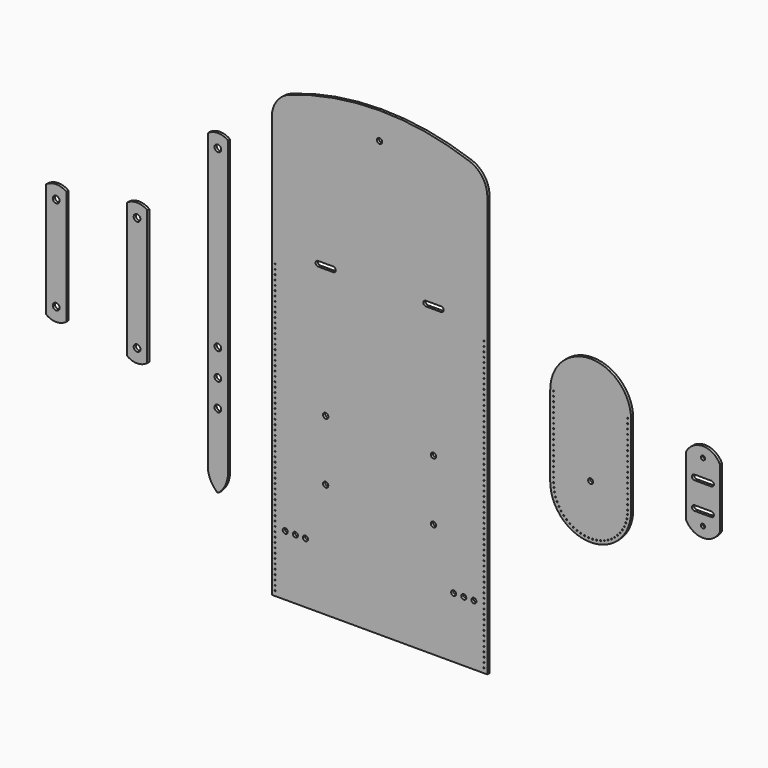
from build123d import *

# Parameters (mm, degrees)
F0_R      = 2.38125
F0_R_2    = 2.5
F1_DEPTH  = 2.54
F2_R      = 2.38125
F3_DEPTH  = 2.54
F4_R      = 0.5
F5_DEPTH  = 2.541
F6_R      = 0.5
F7_DEPTH  = 2.541
F8_R      = 3.175
F9_DEPTH  = 2.54
F10_R     = 2
F11_DEPTH = 2.54


with BuildPart() as f1:
    # F0 (on Front) → F1 (new body)
    with BuildSketch(Plane.XZ):
        with BuildLine():
            ThreePointArc((101.6, 179.013647), (96.939013, 193.678344), (84.666667, 202.960997))
            ThreePointArc((84.666667, 202.960997), (0, 217.4875), (-84.666667, 202.960997))
            ThreePointArc((-84.666667, 202.960997), (-96.939013, 193.678344), (-101.6, 179.013647))
            Line((-101.6, 179.013647), (-101.6, -217.4875))
            Line((-101.6, -217.4875), (101.6, -217.4875))
            Line((101.6, -217.4875), (101.6, 179.013647))
        make_face()
        with Locations((-88.9, -160.3375)):
            Circle(F0_R, mode=Mode.SUBTRACT)
        with Locations((-79.375, -160.3375)):
            Circle(F0_R, mode=Mode.SUBTRACT)
        with Locations((-69.85, -160.3375)):
            Circle(F0_R, mode=Mode.SUBTRACT)
        with Locations((-50.8, -109.5375)):
            Circle(F0_R_2, mode=Mode.SUBTRACT)
        with Locations((-50.8, -52.3875)):
            Circle(F0_R_2, mode=Mode.SUBTRACT)
        with Locations((50.8, -109.5375)):
            Circle(F0_R_2, mode=Mode.SUBTRACT)
        with Locations((69.85, -160.3375)):
            Circle(F0_R, mode=Mode.SUBTRACT)
        with Locations((79.375, -160.3375)):
            Circle(F0_R, mode=Mode.SUBTRACT)
        with Locations((88.9, -160.3375)):
            Circle(F0_R, mode=Mode.SUBTRACT)
        with Locations((50.8, -52.3875)):
            Circle(F0_R_2, mode=Mode.SUBTRACT)
        with BuildLine():
            Line((-43.65625, 69.05625), (-57.94375, 69.05625))
            ThreePointArc((-57.94375, 69.05625), (-60.325, 71.4375), (-57.94375, 73.81875))
            Line((-57.94375, 73.81875), (-43.65625, 73.81875))
            ThreePointArc((-43.65625, 73.81875), (-41.275, 71.4375), (-43.65625, 69.05625))
        make_face(mode=Mode.SUBTRACT)
        with Locations((0, 192.0875)):
            Circle(F0_R_2, mode=Mode.SUBTRACT)
        with BuildLine():
            Line((43.65625, 73.81875), (57.94375, 73.81875))
            ThreePointArc((57.94375, 73.81875), (60.325, 71.4375), (57.94375, 69.05625))
            Line((57.94375, 69.05625), (43.65625, 69.05625))
            ThreePointArc((43.65625, 69.05625), (41.275, 71.4375), (43.65625, 73.81875))
        make_face(mode=Mode.SUBTRACT)
    extrude(amount=F1_DEPTH)

    # F6 (on face) → F7 (cut, through all)
    with BuildSketch(Plane.XZ.offset(2.54)):
        with Locations((98.425, -213.0425)):
            Circle(F6_R)
        with Locations((98.425, -208.5975)):
            Circle(F6_R)
        with Locations((98.425, -204.1525)):
            Circle(F6_R)
        with Locations((98.425, -199.7075)):
            Circle(F6_R)
        with Locations((98.425, -195.2625)):
            Circle(F6_R)
        with Locations((98.425, -190.8175)):
            Circle(F6_R)
        with Locations((98.425, -186.3725)):
            Circle(F6_R)
        with Locations((98.425, -181.9275)):
            Circle(F6_R)
        with Locations((98.425, -177.4825)):
            Circle(F6_R)
        with Locations((98.425, -173.0375)):
            Circle(F6_R)
        with Locations((98.425, -168.5925)):
            Circle(F6_R)
        with Locations((98.425, -164.1475)):
            Circle(F6_R)
        with Locations((98.425, -159.7025)):
            Circle(F6_R)
        with Locations((98.425, -155.2575)):
            Circle(F6_R)
        with Locations((98.425, -150.8125)):
            Circle(F6_R)
        with Locations((98.425, -146.3675)):
            Circle(F6_R)
        with Locations((98.425, -141.9225)):
            Circle(F6_R)
        with Locations((98.425, -137.4775)):
            Circle(F6_R)
        with Locations((98.425, -133.0325)):
            Circle(F6_R)
        with Locations((98.425, -128.5875)):
            Circle(F6_R)
        with Locations((98.425, -124.1425)):
            Circle(F6_R)
        with Locations((98.425, -119.6975)):
            Circle(F6_R)
        with Locations((98.425, -115.2525)):
            Circle(F6_R)
        with Locations((98.425, -110.8075)):
            Circle(F6_R)
        with Locations((98.425, -106.3625)):
            Circle(F6_R)
        with Locations((98.425, -101.9175)):
            Circle(F6_R)
        with Locations((98.425, -97.4725)):
            Circle(F6_R)
        with Locations((98.425, -93.0275)):
            Circle(F6_R)
        with Locations((98.425, -88.5825)):
            Circle(F6_R)
        with Locations((98.425, -84.1375)):
            Circle(F6_R)
        with Locations((98.425, -79.6925)):
            Circle(F6_R)
        with Locations((98.425, -75.2475)):
            Circle(F6_R)
        with Locations((98.425, -70.8025)):
            Circle(F6_R)
        with Locations((98.425, -66.3575)):
            Circle(F6_R)
        with Locations((98.425, -61.9125)):
            Circle(F6_R)
        with Locations((98.425, -57.4675)):
            Circle(F6_R)
        with Locations((98.425, -53.0225)):
            Circle(F6_R)
        with Locations((98.425, -48.5775)):
            Circle(F6_R)
        with Locations((98.425, -44.1325)):
            Circle(F6_R)
        with Locations((98.425, -39.6875)):
            Circle(F6_R)
        with Locations((98.425, -35.2425)):
            Circle(F6_R)
        with Locations((98.425, -30.7975)):
            Circle(F6_R)
        with Locations((98.425, -26.3525)):
            Circle(F6_R)
        with Locations((98.425, -21.9075)):
            Circle(F6_R)
        with Locations((98.425, -17.4625)):
            Circle(F6_R)
        with Locations((98.425, -13.0175)):
            Circle(F6_R)
        with Locations((98.425, -8.5725)):
            Circle(F6_R)
        with Locations((98.425, -4.1275)):
            Circle(F6_R)
        with Locations((98.425, 0.3175)):
            Circle(F6_R)
        with Locations((98.425, 4.7625)):
            Circle(F6_R)
        with Locations((98.425, 9.2075)):
            Circle(F6_R)
        with Locations((98.425, 13.6525)):
            Circle(F6_R)
        with Locations((98.425, 18.0975)):
            Circle(F6_R)
        with Locations((98.425, 22.5425)):
            Circle(F6_R)
        with Locations((98.425, 26.9875)):
            Circle(F6_R)
        with Locations((98.425, 31.4325)):
            Circle(F6_R)
        with Locations((98.425, 35.8775)):
            Circle(F6_R)
        with Locations((98.425, 40.3225)):
            Circle(F6_R)
        with Locations((98.425, 44.7675)):
            Circle(F6_R)
        with Locations((98.425, 49.2125)):
            Circle(F6_R)
        with Locations((98.425, 53.6575)):
            Circle(F6_R)
        with Locations((98.425, 58.1025)):
            Circle(F6_R)
        with Locations((-98.425, -213.0425)):
            Circle(F6_R)
        with Locations((-98.425, -204.1525)):
            Circle(F6_R)
        with Locations((-98.425, -208.5975)):
            Circle(F6_R)
        with Locations((-98.425, -164.1475)):
            Circle(F6_R)
        with Locations((-98.425, -168.5925)):
            Circle(F6_R)
        with Locations((-98.425, -173.0375)):
            Circle(F6_R)
        with Locations((-98.425, -177.4825)):
            Circle(F6_R)
        with Locations((-98.425, -181.9275)):
            Circle(F6_R)
        with Locations((-98.425, -186.3725)):
            Circle(F6_R)
        with Locations((-98.425, -190.8175)):
            Circle(F6_R)
        with Locations((-98.425, -195.2625)):
            Circle(F6_R)
        with Locations((-98.425, -199.7075)):
            Circle(F6_R)
        with Locations((-98.425, -159.7025)):
            Circle(F6_R)
        with Locations((-98.425, -79.6925)):
            Circle(F6_R)
        with Locations((-98.425, -84.1375)):
            Circle(F6_R)
        with Locations((-98.425, -21.9075)):
            Circle(F6_R)
        with Locations((-98.425, -93.0275)):
            Circle(F6_R)
        with Locations((-98.425, -57.4675)):
            Circle(F6_R)
        with Locations((-98.425, -88.5825)):
            Circle(F6_R)
        with Locations((-98.425, -26.3525)):
            Circle(F6_R)
        with Locations((-98.425, 44.7675)):
            Circle(F6_R)
        with Locations((-98.425, -97.4725)):
            Circle(F6_R)
        with Locations((-98.425, -133.0325)):
            Circle(F6_R)
        with Locations((-98.425, -61.9125)):
            Circle(F6_R)
        with Locations((-98.425, 9.2075)):
            Circle(F6_R)
        with Locations((-98.425, -30.7975)):
            Circle(F6_R)
        with Locations((-98.425, 40.3225)):
            Circle(F6_R)
        with Locations((-98.425, -101.9175)):
            Circle(F6_R)
        with Locations((-98.425, -137.4775)):
            Circle(F6_R)
        with Locations((-98.425, -66.3575)):
            Circle(F6_R)
        with Locations((-98.425, 4.7625)):
            Circle(F6_R)
        with Locations((-98.425, 35.8775)):
            Circle(F6_R)
        with Locations((-98.425, -106.3625)):
            Circle(F6_R)
        with Locations((-98.425, -39.6875)):
            Circle(F6_R)
        with Locations((-98.425, 31.4325)):
            Circle(F6_R)
        with Locations((-98.425, -110.8075)):
            Circle(F6_R)
        with Locations((-98.425, -141.9225)):
            Circle(F6_R)
        with Locations((-98.425, 0.3175)):
            Circle(F6_R)
        with Locations((-98.425, -44.1325)):
            Circle(F6_R)
        with Locations((-98.425, 26.9875)):
            Circle(F6_R)
        with Locations((-98.425, -115.2525)):
            Circle(F6_R)
        with Locations((-98.425, -150.8125)):
            Circle(F6_R)
        with Locations((-98.425, -155.2575)):
            Circle(F6_R)
        with Locations((-98.425, -119.6975)):
            Circle(F6_R)
        with Locations((-98.425, -48.5775)):
            Circle(F6_R)
        with Locations((-98.425, 22.5425)):
            Circle(F6_R)
        with Locations((-98.425, -8.5725)):
            Circle(F6_R)
        with Locations((-98.425, 58.1025)):
            Circle(F6_R)
        with Locations((-98.425, -124.1425)):
            Circle(F6_R)
        with Locations((-98.425, -53.0225)):
            Circle(F6_R)
        with Locations((-98.425, -13.0175)):
            Circle(F6_R)
        with Locations((-98.425, 18.0975)):
            Circle(F6_R)
        with Locations((-98.425, 49.2125)):
            Circle(F6_R)
        with Locations((-98.425, 53.6575)):
            Circle(F6_R)
        with Locations((-98.425, -128.5875)):
            Circle(F6_R)
        with Locations((-98.425, -17.4625)):
            Circle(F6_R)
        with Locations((-98.425, 13.6525)):
            Circle(F6_R)
        with Locations((-98.425, -35.2425)):
            Circle(F6_R)
        with Locations((-98.425, -70.8025)):
            Circle(F6_R)
        with Locations((-98.425, -146.3675)):
            Circle(F6_R)
        with Locations((-98.425, -75.2475)):
            Circle(F6_R)
        with Locations((-98.425, -4.1275)):
            Circle(F6_R)
    extrude(amount=-F7_DEPTH, mode=Mode.SUBTRACT)


with BuildPart() as f3:
    # F2 (on Front) → F3 (new body)
    with BuildSketch(Plane.XZ):
        with BuildLine():
            ThreePointArc((160.872716, -38.1), (198.972716, -76.2), (237.072716, -38.1))
            Line((237.072716, -38.1), (237.072716, 38.1))
            ThreePointArc((237.072716, 38.1), (198.972716, 76.2), (160.872716, 38.1))
            Line((160.872716, 38.1), (160.872716, -38.1))
        make_face()
        with Locations((198.972716, -25.4)):
            Circle(F2_R, mode=Mode.SUBTRACT)
    extrude(amount=F3_DEPTH)

    # F4 (on face) → F5 (cut, through all)
    with BuildSketch(Plane.XZ.offset(2.54)):
        with Locations((233.897716, 38.100003)):
            Circle(F4_R)
        with Locations((233.897716, 33.61765)):
            Circle(F4_R)
        with Locations((233.897716, 29.135296)):
            Circle(F4_R)
        with Locations((233.897716, 24.652943)):
            Circle(F4_R)
        with Locations((233.897716, 20.17059)):
            Circle(F4_R)
        with Locations((233.897716, 15.688237)):
            Circle(F4_R)
        with Locations((233.897716, 11.205884)):
            Circle(F4_R)
        with Locations((233.897716, 6.723531)):
            Circle(F4_R)
        with Locations((233.897716, 2.241177)):
            Circle(F4_R)
        with Locations((233.897716, -2.241176)):
            Circle(F4_R)
        with Locations((233.897716, -6.723529)):
            Circle(F4_R)
        with Locations((233.897716, -11.205882)):
            Circle(F4_R)
        with Locations((233.897716, -15.688235)):
            Circle(F4_R)
        with Locations((233.897716, -20.170588)):
            Circle(F4_R)
        with Locations((233.897716, -24.652942)):
            Circle(F4_R)
        with Locations((233.897716, -29.135295)):
            Circle(F4_R)
        with Locations((233.897716, -33.617648)):
            Circle(F4_R)
        with Locations((233.897716, -38.100001)):
            Circle(F4_R)
        with Locations((233.692984, -41.876058)):
            Circle(F4_R)
        with Locations((233.081189, -45.607844)):
            Circle(F4_R)
        with Locations((232.069503, -49.251607)):
            Circle(F4_R)
        with Locations((230.669787, -52.764628)):
            Circle(F4_R)
        with Locations((228.898452, -56.105719)):
            Circle(F4_R)
        with Locations((226.776266, -59.23571)):
            Circle(F4_R)
        with Locations((224.328108, -62.117904)):
            Circle(F4_R)
        with Locations((221.582681, -64.718511)):
            Circle(F4_R)
        with Locations((218.572173, -67.007039)):
            Circle(F4_R)
        with Locations((215.33188, -68.956659)):
            Circle(F4_R)
        with Locations((211.89979, -70.544512)):
            Circle(F4_R)
        with Locations((208.316142, -71.751984)):
            Circle(F4_R)
        with Locations((204.622951, -72.564916)):
            Circle(F4_R)
        with Locations((200.863516, -72.97378)):
            Circle(F4_R)
        with Locations((197.081913, -72.973779)):
            Circle(F4_R)
        with Locations((193.322479, -72.564916)):
            Circle(F4_R)
        with Locations((189.629288, -71.751983)):
            Circle(F4_R)
        with Locations((186.04564, -70.544512)):
            Circle(F4_R)
        with Locations((182.61355, -68.956658)):
            Circle(F4_R)
        with Locations((179.373257, -67.007038)):
            Circle(F4_R)
        with Locations((176.362749, -64.718509)):
            Circle(F4_R)
        with Locations((173.617323, -62.117903)):
            Circle(F4_R)
        with Locations((171.169165, -59.235709)):
            Circle(F4_R)
        with Locations((169.046979, -56.105717)):
            Circle(F4_R)
        with Locations((167.275644, -52.764626)):
            Circle(F4_R)
        with Locations((165.875929, -49.251605)):
            Circle(F4_R)
        with Locations((164.864243, -45.607842)):
            Circle(F4_R)
        with Locations((164.252448, -41.876056)):
            Circle(F4_R)
        with Locations((164.047716, -38.099999)):
            Circle(F4_R)
        with Locations((164.047716, 38.100003)):
            Circle(F4_R)
        with Locations((164.047716, 33.61765)):
            Circle(F4_R)
        with Locations((164.047716, -20.170588)):
            Circle(F4_R)
        with Locations((164.047716, -24.652942)):
            Circle(F4_R)
        with Locations((164.047716, -29.135295)):
            Circle(F4_R)
        with Locations((164.047716, -2.241176)):
            Circle(F4_R)
        with Locations((164.047716, -6.723529)):
            Circle(F4_R)
        with Locations((164.047716, -11.205882)):
            Circle(F4_R)
        with Locations((164.047716, -15.688235)):
            Circle(F4_R)
        with Locations((164.047716, 29.135296)):
            Circle(F4_R)
        with Locations((164.047716, 24.652943)):
            Circle(F4_R)
        with Locations((164.047716, 11.205884)):
            Circle(F4_R)
        with Locations((164.047716, -33.617648)):
            Circle(F4_R)
        with Locations((164.047716, 6.723531)):
            Circle(F4_R)
        with Locations((164.047716, 2.241177)):
            Circle(F4_R)
        with Locations((164.047716, 20.17059)):
            Circle(F4_R)
        with Locations((164.047716, 15.688237)):
            Circle(F4_R)
    extrude(amount=-F5_DEPTH, mode=Mode.SUBTRACT)


with BuildPart() as f9:
    # F8 (on Front) → F9 (new body)
    with BuildSketch(Plane.XZ):
        with BuildLine():
            ThreePointArc((-151.341775, -148.82085), (-145.14604, -140.388995), (-142.875, -130.175))
            Line((-142.875, -130.175), (-142.875, 146.05))
            ThreePointArc((-142.875, 146.05), (-152.4, 149.225), (-161.925, 146.05))
            Line((-161.925, 146.05), (-161.925, -130.175))
            ThreePointArc((-161.925, -130.175), (-159.65396, -140.388995), (-153.458225, -148.82085))
            ThreePointArc((-153.458225, -148.82085), (-152.4, -149.225), (-151.341775, -148.82085))
        make_face()
        with Locations((-152.4, -79.375)):
            Circle(F8_R, mode=Mode.SUBTRACT)
        with Locations((-152.4, -53.975)):
            Circle(F8_R, mode=Mode.SUBTRACT)
        with Locations((-152.4, -28.575)):
            Circle(F8_R, mode=Mode.SUBTRACT)
        with Locations((-152.4, 136.525)):
            Circle(F8_R, mode=Mode.SUBTRACT)
        with BuildLine():
            ThreePointArc((-314.325, -53.975), (-304.8, -57.15), (-295.275, -53.975))
            Line((-295.275, -53.975), (-295.275, 53.975))
            ThreePointArc((-295.275, 53.975), (-304.8, 57.15), (-314.325, 53.975))
            Line((-314.325, 53.975), (-314.325, -53.975))
        make_face()
        with Locations((-304.8, -44.45)):
            Circle(F8_R, mode=Mode.SUBTRACT)
        with Locations((-304.8, 44.45)):
            Circle(F8_R, mode=Mode.SUBTRACT)
        with BuildLine():
            ThreePointArc((-238.125, -63.5), (-228.6, -66.675), (-219.075, -63.5))
            Line((-219.075, -63.5), (-219.075, 63.5))
            ThreePointArc((-219.075, 63.5), (-228.6, 66.675), (-238.125, 63.5))
            Line((-238.125, 63.5), (-238.125, -63.5))
        make_face()
        with Locations((-228.6, -53.975)):
            Circle(F8_R, mode=Mode.SUBTRACT)
        with Locations((-228.6, 53.975)):
            Circle(F8_R, mode=Mode.SUBTRACT)
    extrude(amount=F9_DEPTH)


with BuildPart() as f11:
    # F10 (on Front) → F11 (new body)
    with BuildSketch(Plane.XZ):
        with BuildLine():
            ThreePointArc((288.925, -28.327045), (304.8, -38.1), (320.675, -28.327045))
            Line((320.675, -28.327045), (320.675, 28.327045))
            ThreePointArc((320.675, 28.327045), (304.8, 38.1), (288.925, 28.327045))
            Line((288.925, 28.327045), (288.925, -28.327045))
        make_face()
        with BuildLine():
            ThreePointArc((315.11875, -15.875), (314.421298, -17.558798), (312.7375, -18.25625))
            Line((312.7375, -18.25625), (296.8625, -18.25625))
            ThreePointArc((296.8625, -18.25625), (295.178702, -17.558798), (294.48125, -15.875))
            ThreePointArc((294.48125, -15.875), (295.178702, -14.191202), (296.8625, -13.49375))
            Line((296.8625, -13.49375), (312.7375, -13.49375))
            ThreePointArc((312.7375, -13.49375), (314.421298, -14.191202), (315.11875, -15.875))
        make_face(mode=Mode.SUBTRACT)
        with Locations((304.8, -28.327045)):
            Circle(F10_R, mode=Mode.SUBTRACT)
        with BuildLine():
            ThreePointArc((315.11875, 9.525), (314.421298, 7.841202), (312.7375, 7.14375))
            Line((312.7375, 7.14375), (296.8625, 7.14375))
            ThreePointArc((296.8625, 7.14375), (295.178702, 7.841202), (294.48125, 9.525))
            ThreePointArc((294.48125, 9.525), (295.178702, 11.208798), (296.8625, 11.90625))
            Line((296.8625, 11.90625), (312.7375, 11.90625))
            ThreePointArc((312.7375, 11.90625), (314.421298, 11.208798), (315.11875, 9.525))
        make_face(mode=Mode.SUBTRACT)
        with Locations((304.8, 28.327045)):
            Circle(F10_R, mode=Mode.SUBTRACT)
    extrude(amount=F11_DEPTH)


solid = Compound([f1.part, f3.part, f9.part, f11.part])
